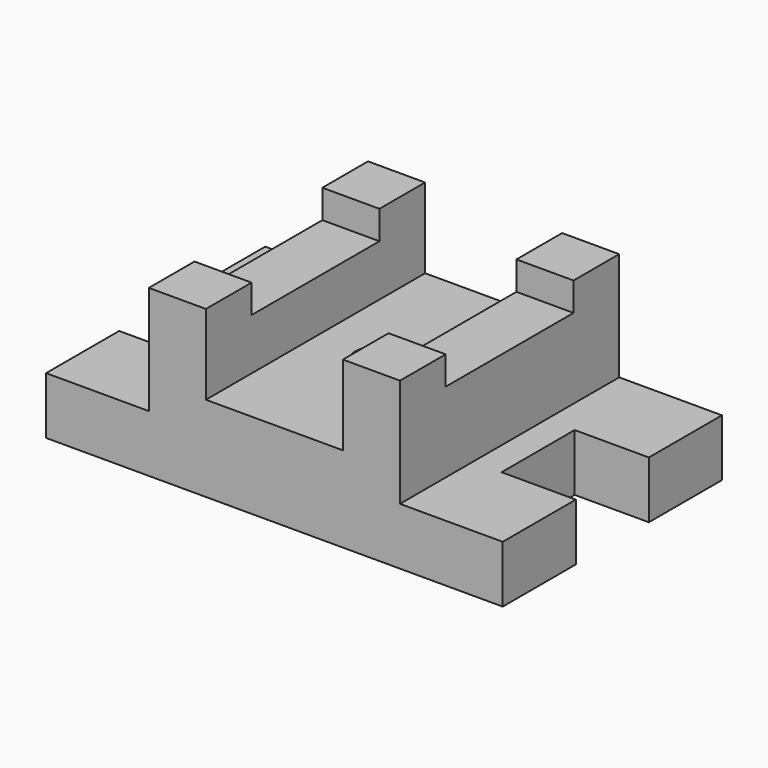
from build123d import *

# Parameters (mm, degrees)
F1_DEPTH  = 31.75
F2_W      = 31.75
F2_H      = 31.75
F3_DEPTH  = 60.325
F4_DEPTH  = 60.325
F5_DEPTH  = 60.325
F6_DEPTH  = 60.325
F2_H_2    = 88.9
F7_DEPTH  = 44.45
F8_DEPTH  = 44.45
F9_DEPTH  = 15.875
F10_R     = 15.875
F11_DEPTH = 48.26


with BuildPart() as f1:
    # F0 (on Top) → F1 (new body)
    with BuildSketch(Plane.XY):
        Polygon((0, 76.2632922316), (0, -76.1367077684), (127, -76.1367077684), (127, -25.3367077684), (85.725, -25.3367077684), (85.725, 25.4632922316), (127, 25.4632922316), (127, 76.2632922316), align=None)
        Polygon((-127, -76.1367077684), (0, -76.1367077684), (0, 76.2632922316), (-127, 76.2632922316), (-127, 25.4632922316), (-85.725, 25.4632922316), (-85.725, -25.3367077684), (-127, -25.3367077684), align=None)
    extrude(amount=F1_DEPTH)

    # F2 (on face) → F3 (join)
    with BuildSketch(Plane.XY.offset(31.75)):
        with Locations((53.975, 60.3882922316)):
            Rectangle(F2_W, F2_H)
    extrude(amount=F3_DEPTH)

    # F2 (on face) → F4 (join)
    with BuildSketch(Plane.XY.offset(31.75)):
        with Locations((53.975, -60.2617077684)):
            Rectangle(F2_W, F2_H)
    extrude(amount=F4_DEPTH)

    # F2 (on face) → F5 (join)
    with BuildSketch(Plane.XY.offset(31.75)):
        with Locations((-53.975, -60.2617077684)):
            Rectangle(F2_W, F2_H)
    extrude(amount=F5_DEPTH)

    # F2 (on face) → F6 (join)
    with BuildSketch(Plane.XY.offset(31.75)):
        with Locations((-53.975, 60.3882922316)):
            Rectangle(F2_W, F2_H)
    extrude(amount=F6_DEPTH)

    # F2 (on face) → F7 (join)
    with BuildSketch(Plane.XY.offset(31.75)):
        with Locations((53.975, 0.0632922316)):
            Rectangle(F2_W, F2_H_2)
    extrude(amount=F7_DEPTH)

    # F2 (on face) → F8 (join)
    with BuildSketch(Plane.XY.offset(31.75)):
        with Locations((-53.975, 0.0632922316)):
            Rectangle(F2_W, F2_H_2)
    extrude(amount=F8_DEPTH)

    # F9 (add): a face of the model
    f9_faces = [f1.faces().sort_by_distance(p)[0] for p in [
        (0, 0.0632922316, 31.75),
    ]]
    extrude(f9_faces, amount=F9_DEPTH)

    # F10 (on Top) → F11 (cut)
    with BuildSketch(Plane.XY):
        Circle(F10_R)
    extrude(amount=F11_DEPTH, mode=Mode.SUBTRACT)


solid = f1.part
